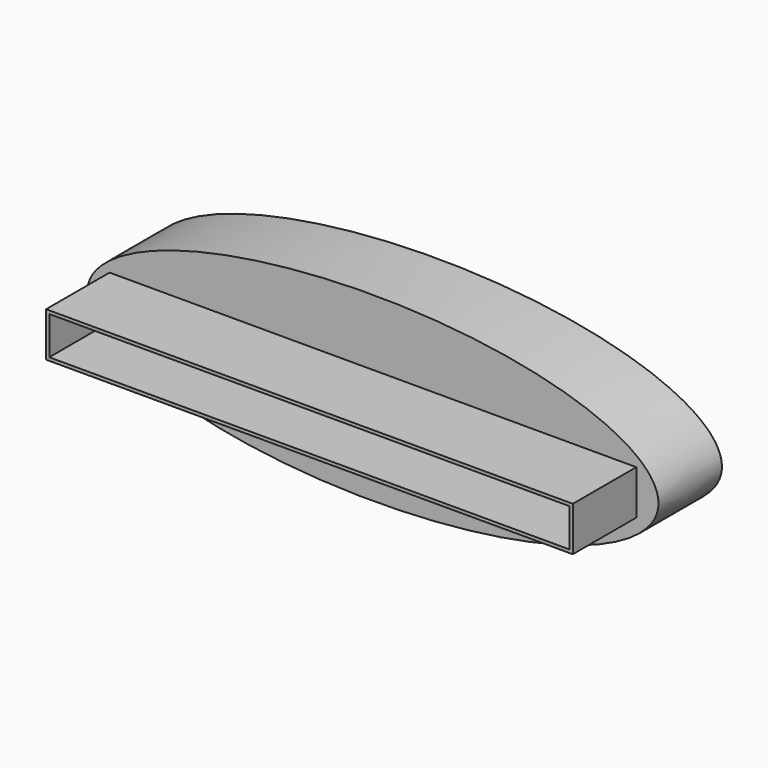
from build123d import *

# Parameters (mm, degrees)
F1_DEPTH = 25
F2_W     = 165.9680002281
F2_H     = 14
F3_DEPTH = 25
F4_T     = -1


with BuildPart() as f1:
    # F0 (on Front) → F1 (new body)
    with BuildSketch(Plane.XZ):
        with BuildLine():
            Line((90, 0), (-90, 0))
            add(Edge.make_bspline(
                [(-90, 0), (-90, -28.5931390098), (0, -28.5931390098), (90, -28.5931390098), (90, 0)],
                knots=[0, 0, 0, 1.5707963268, 1.5707963268, 3.1415926536, 3.1415926536, 3.1415926536], degree=2, weights=[1, 0.7071067812, 1, 0.7071067812, 1]))
        make_face()
        with BuildLine():
            add(Edge.make_bspline(
                [(90, 0), (90, 28.5931390098), (0, 28.5931390098), (-90, 28.5931390098), (-90, 0)],
                knots=[3.1415926536, 3.1415926536, 3.1415926536, 4.7123889804, 4.7123889804, 6.2831853072, 6.2831853072, 6.2831853072], degree=2, weights=[1, 0.7071067812, 1, 0.7071067812, 1]))
            Line((-90, 0), (90, 0))
        make_face()
    extrude(amount=F1_DEPTH)

    # F2 (on face) → F3 (join)
    with BuildSketch(Plane.XZ.offset(25)):
        with Locations((0.0261887908, 0.7680070121)):
            Rectangle(F2_W, F2_H)
    extrude(amount=F3_DEPTH)

    # F4
    f4_openings = [f1.faces().sort_by_distance(p)[0] for p in [
        (0.026189, -50, 0.768007),
    ]]
    offset(amount=F4_T, openings=f4_openings, kind=Kind.INTERSECTION)


solid = f1.part
